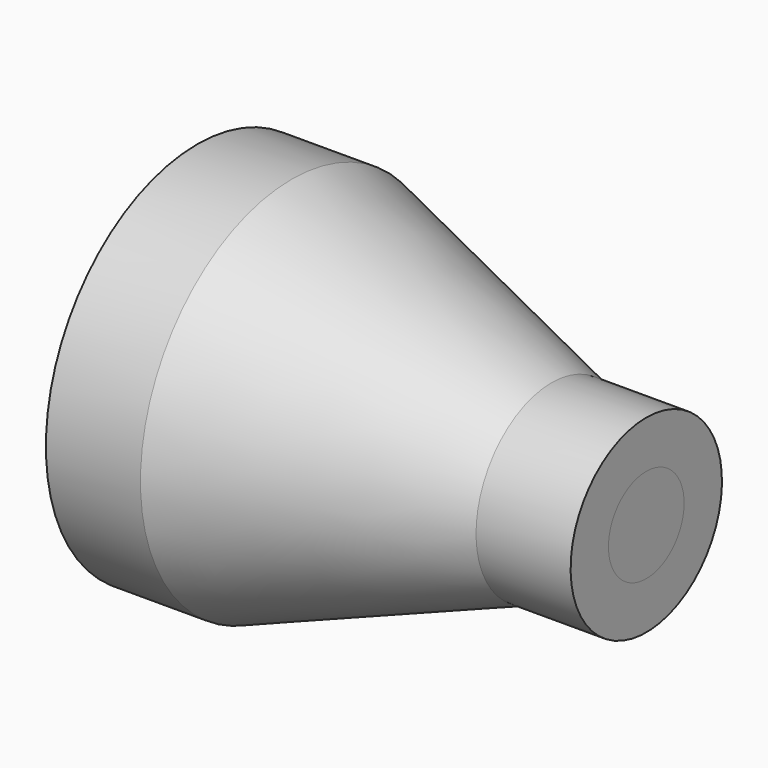
from build123d import *


with BuildPart() as f1:
    # F0 (on Front) → F1 (revolve)
    with BuildSketch(Plane.XZ):
        Polygon((0, 20), (0, 15), (9.118365, 15), (36.593139, 5), (47.474774, 5), (47.474774, 10), (37.474774, 10), (10, 20), align=None)
    revolve(axis=Axis((23.737387, 0, 0), (1, 0, 0)))


with BuildPart() as f2:
    # F0 (on Front) → F2 (revolve)
    with BuildSketch(Plane.XZ):
        Polygon((0, 15), (0, 0), (47.474774, 0), (47.474774, 5), (36.593139, 5), (9.118365, 15), align=None)
    revolve(axis=Axis((23.737387, 0, 0), (1, 0, 0)))


solid = Compound([f1.part, f2.part])
